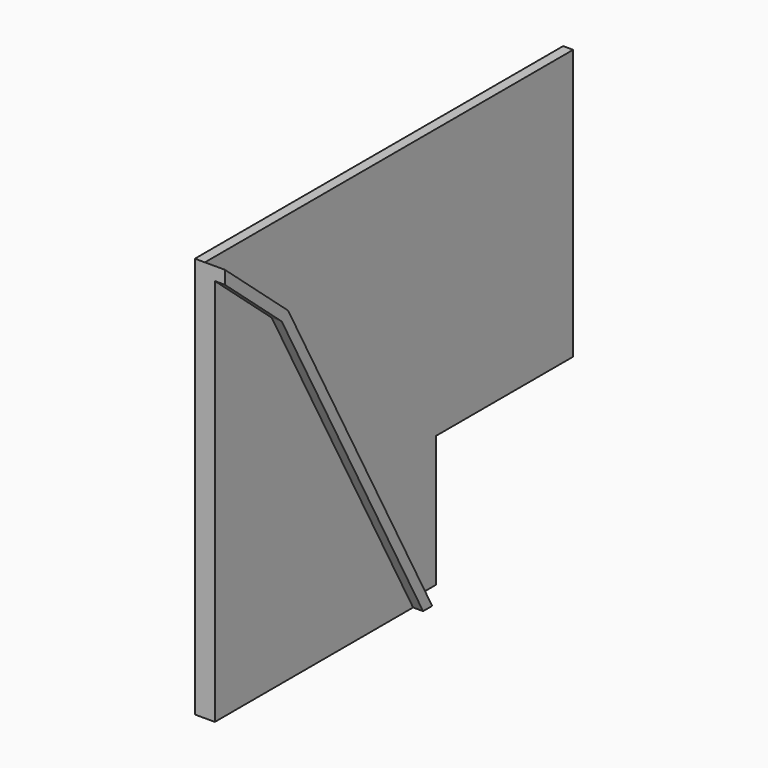
from build123d import *

# Parameters (mm, degrees)
F1_DEPTH = 1
F2_DEPTH = 3
F3_DEPTH = 2


with BuildPart() as f1:
    # F0 (on Right) → F1 (new body)
    with BuildSketch(Plane.YZ):
        Polygon((-35.161479, 26.232064), (-35.161479, 53.232064), (-81.161479, 53.232064), (-73.265584, 46.433675), (-62.346259, 26.232064), (-55.265479, 13.132064), (-52.265479, 13.132064), (-52.265479, 26.232064), (-45.161479, 26.232064), align=None)
    extrude(amount=F1_DEPTH)

    # F0 (on Right) → F2 (join)
    with BuildSketch(Plane.YZ):
        Polygon((-73.265584, 46.433675), (-81.161479, 53.232064), (-81.161479, 51.912471), (-74.057687, 45.796085), (-56.402211, 13.132064), (-55.265479, 13.132064), (-62.346259, 26.232064), align=None)
    extrude(amount=F2_DEPTH)

    # F0 (on Right) → F3 (join)
    with BuildSketch(Plane.YZ):
        Polygon((-74.057687, 45.796085), (-81.161479, 51.912471), (-81.161479, 26.232064), (-81.161479, 13.132064), (-56.402211, 13.132064), align=None)
    extrude(amount=F3_DEPTH)


solid = f1.part
